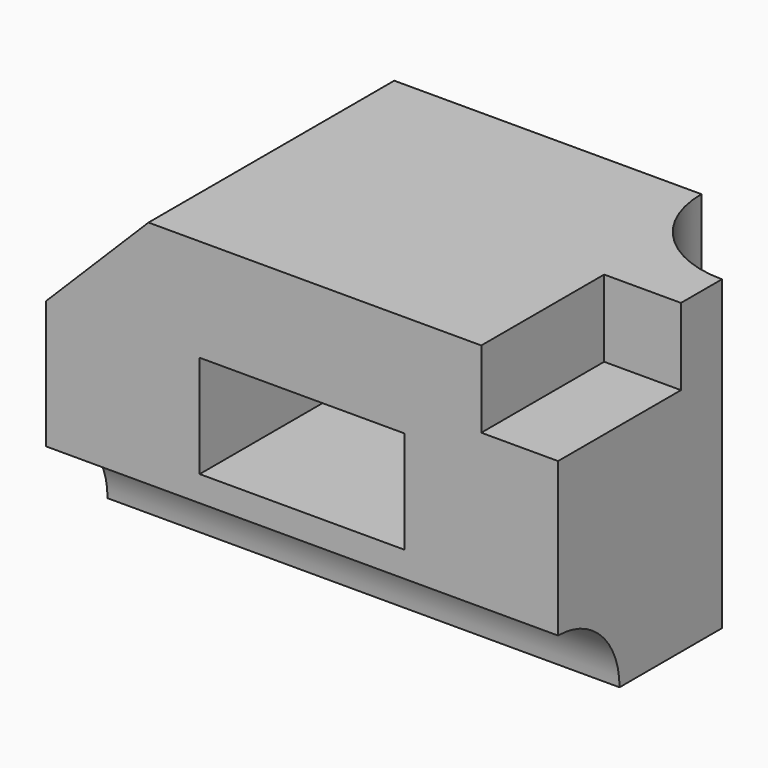
from build123d import *

# Parameters (mm, degrees)
F0_W      = 50
F0_H      = 30
F1_DEPTH  = 30
F3_DEPTH  = 30.001
F4_W      = 20
F4_H      = 10
F5_DEPTH  = 20
F6_R      = 10
F7_DEPTH  = 30.001
F8_W      = 7.5
F8_H      = 15
F9_DEPTH  = 7.5
F10_R     = 7.5
F11_DEPTH = 50.001


with BuildPart() as f1:
    # F0 (on Top) → F1 (new body)
    with BuildSketch(Plane.XY):
        with Locations((25, 15)):
            Rectangle(F0_W, F0_H)
    extrude(amount=F1_DEPTH)

    # F2 (on face) → F3 (cut, through all)
    with BuildSketch(Plane.XZ):
        Polygon((10, 30), (0, 30), (0, 20), align=None)
    extrude(amount=-F3_DEPTH, mode=Mode.SUBTRACT)

    # F4 (on face) → F5 (cut)
    with BuildSketch(Plane.XZ):
        with Locations((25, 15)):
            Rectangle(F4_W, F4_H)
    extrude(amount=-F5_DEPTH, mode=Mode.SUBTRACT)

    # F6 (on face) → F7 (cut, through all)
    with BuildSketch(Plane.XY.offset(30)):
        with Locations((50, 30)):
            Circle(F6_R)
    extrude(amount=-F7_DEPTH, mode=Mode.SUBTRACT)

    # F8 (on face) → F9 (cut)
    with BuildSketch(Plane.XY.offset(30)):
        with Locations((46.25, 7.5)):
            Rectangle(F8_W, F8_H)
    extrude(amount=-F9_DEPTH, mode=Mode.SUBTRACT)

    # F10 (on face) → F11 (cut, through all)
    with BuildSketch(Plane.YZ.offset(50)):
        Circle(F10_R)
    extrude(amount=-F11_DEPTH, mode=Mode.SUBTRACT)


solid = f1.part
